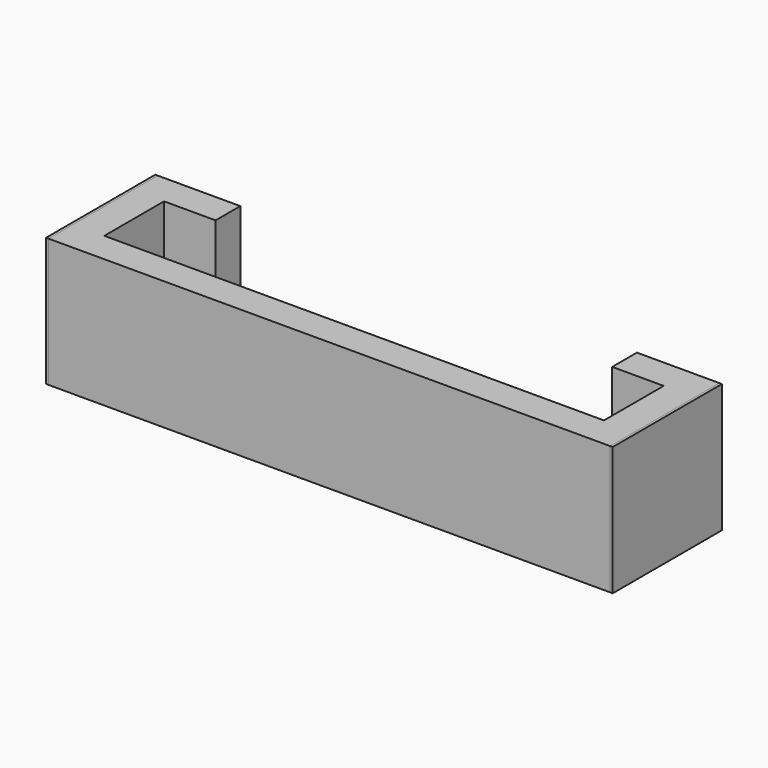
from build123d import *

# Parameters (mm, degrees)
F1_DEPTH = 5
F3_DEPTH = 5


with BuildPart() as f1:
    # F0 (on Top) → F1 (new body)
    with BuildSketch(Plane.XY):
        Polygon((-11, 0), (0, 0), (0, 1.2), (-9.8, 1.2), (-9.8, 4.1), (-7.8, 4.1), (-7.8, 5.3), (-11, 5.3), align=None)
        Polygon((0, 1.2), (0, 0), (11, 0), (11, 5.3), (7.8, 5.3), (7.8, 4.1), (9.8, 4.1), (9.8, 1.2), align=None)
    extrude(amount=F1_DEPTH)


with BuildPart() as f3:
    # F2 (on Top) → F3 (new body)
    with BuildSketch(Plane.XY):
        Polygon((-10.9, 0), (0, 0), (0, 1.2), (-9.7, 1.2), (-9.7, 4.1), (-7.7, 4.1), (-7.7, 5.3), (-10.9, 5.3), align=None)
        Polygon((0, 1.2), (0, 0), (10.9, 0), (10.9, 5.3), (7.7, 5.3), (7.7, 4.1), (9.7, 4.1), (9.7, 1.2), align=None)
    extrude(amount=F3_DEPTH)


solid = Compound([f1.part, f3.part])
